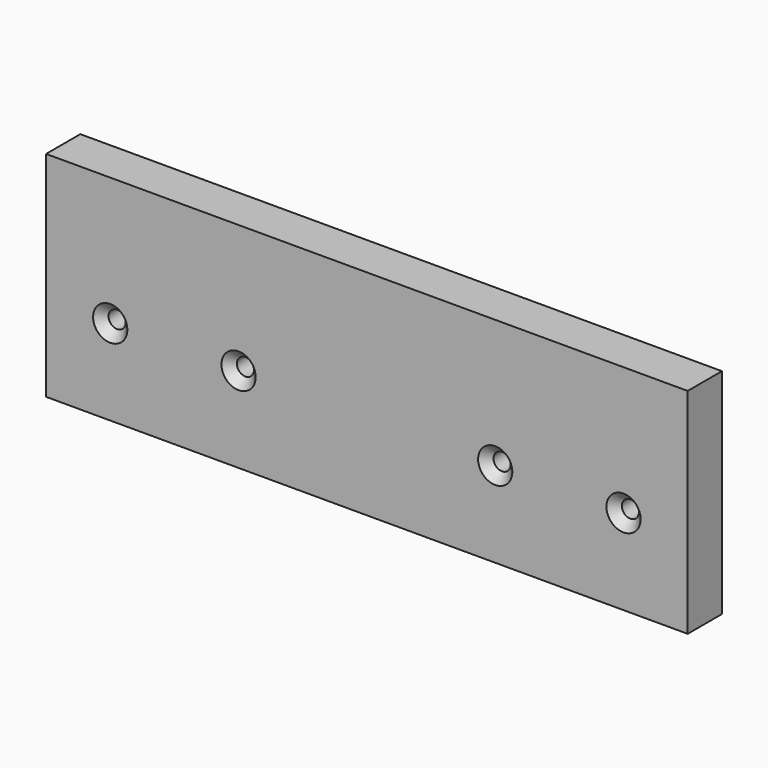
from build123d import *

# Parameters (mm, degrees)
F0_W     = 150
F0_H     = 50
F1_DEPTH = 10
F3_DEPTH = 10.001
F4_SIZE  = 2


with BuildPart() as f1:
    # F0 (on Front) → F1 (new body)
    with BuildSketch(Plane.XZ):
        Rectangle(F0_W, F0_H)
    extrude(amount=F1_DEPTH)

    # F2 (on face) → F3 (cut, through all)
    with BuildSketch(Plane.XZ.offset(10)):
        with BuildLine():
            ThreePointArc((-28, -5), (-30, -3), (-32, -5))
            Line((-32, -5), (-28, -5))
        make_face()
        with BuildLine():
            Line((-28, -5), (-32, -5))
            ThreePointArc((-32, -5), (-30, -7), (-28, -5))
        make_face()
        with BuildLine():
            ThreePointArc((-58, -5), (-60, -3), (-62, -5))
            Line((-62, -5), (-58, -5))
        make_face()
        with BuildLine():
            Line((-58, -5), (-62, -5))
            ThreePointArc((-62, -5), (-60, -7), (-58, -5))
        make_face()
        with BuildLine():
            ThreePointArc((32, -5), (30, -3), (28, -5))
            Line((28, -5), (32, -5))
        make_face()
        with BuildLine():
            Line((32, -5), (28, -5))
            ThreePointArc((28, -5), (30, -7), (32, -5))
        make_face()
        with BuildLine():
            Line((58, -5), (62, -5))
            ThreePointArc((62, -5), (60, -3), (58, -5))
        make_face()
        with BuildLine():
            ThreePointArc((58, -5), (60, -7), (62, -5))
            Line((62, -5), (58, -5))
        make_face()
    extrude(amount=-F3_DEPTH, mode=Mode.SUBTRACT)

    # F4
    f4_edges = [f1.edges().sort_by_distance(p)[0] for p in [
        (-58, -10, -5),
        (-28, -10, -5),
        (32, -10, -5),
        (62, -10, -5),
    ]]
    chamfer(f4_edges, length=F4_SIZE)


solid = f1.part
